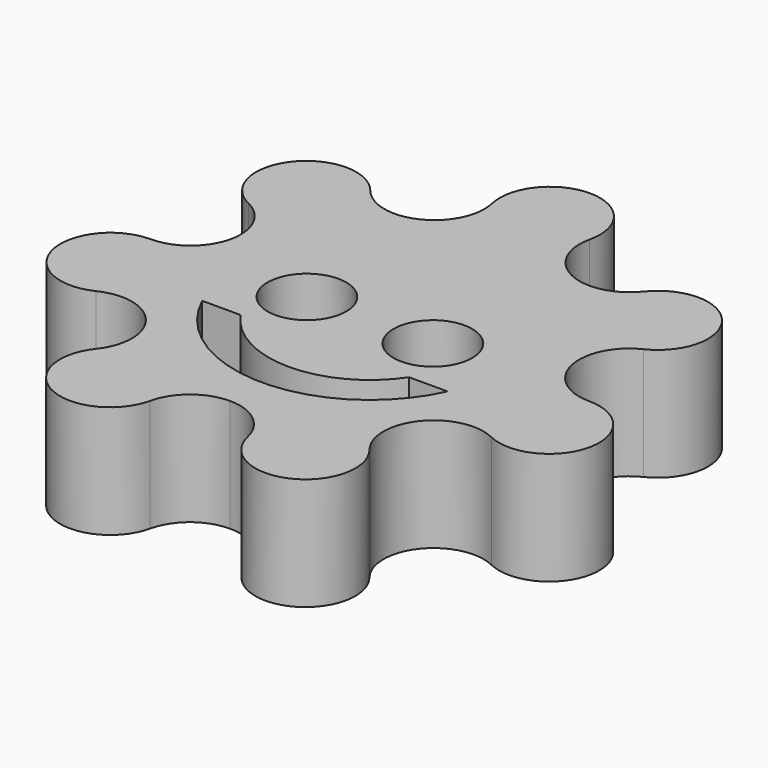
from build123d import *

# Parameters (mm, degrees)
PAD004_DEPTH         = 5
SKETCH012_R          = 0.8
POCKET006_DEPTH      = 67.792744
POCKET006_DEPTH_BACK = 72.792744
SKETCH013_R          = 1.75
POCKET007_DEPTH      = 70.792744
POCKET009_DEPTH      = 5


with BuildPart() as part:
    # Sketch011 (on DatumPlane) → Pad004 (new body)
    with BuildSketch(Plane.XY.offset(6)):
        with BuildLine():
            ThreePointArc((0, 12.225209), (-1.739739, 11.387395), (-2.169419, 9.504844))
            ThreePointArc((-6.078576, 7.622293), (-3.373355, 7.004844), (-2.169419, 9.504844))
            ThreePointArc((-6.078576, 7.622293), (-9.558054, 7.622293), (-8.783797, 4.230054))
            ThreePointArc((-9.749279, 0), (-7.57986, 1.730054), (-8.783797, 4.230054))
            ThreePointArc((-9.749279, 0), (-11.918698, -2.720365), (-8.783797, -4.230054))
            ThreePointArc((-6.078576, -7.622293), (-6.078576, -4.847503), (-8.783797, -4.230054))
            ThreePointArc((-6.078576, -7.622293), (-5.30432, -11.014533), (-2.169419, -9.504844))
            ThreePointArc((0, -7.774791), (-1.387395, -8.260261), (-2.169419, -9.504844))
            Line((0, 12.225209), (0, -7.774791))
        make_face()
    pad004 = extrude(amount=PAD004_DEPTH)

    # Mirrored003: Pad004 across Sketch011 V_Axis
    add(pad004.mirror(Plane(origin=(0, 0, 6), x_dir=(0, 0, 1), z_dir=(1, 0, 0))))

    # Sketch012 (on DatumPlane) → Pocket006 (cut, two sides)
    with BuildSketch(Plane.XY.offset(6)) as pocket006_sk:
        with Locations((-2.8, 0)):
            Circle(SKETCH012_R)
    pocket006 = extrude(amount=-POCKET006_DEPTH, mode=Mode.SUBTRACT) + extrude(pocket006_sk.sketch, amount=POCKET006_DEPTH_BACK, mode=Mode.SUBTRACT)

    # Sketch013 (on DatumPlane) → Pocket007 (cut, through all)
    with BuildSketch(Plane.XY.offset(8)):
        with Locations((-2.8, 0)):
            Circle(SKETCH013_R)
    pocket007 = extrude(amount=POCKET007_DEPTH, mode=Mode.SUBTRACT)

    # Mirrored004: Pocket006, Pocket007 across Sketch012 V_Axis
    add(pocket006.mirror(Plane(origin=(0, 0, 6), x_dir=(0, 0, 1), z_dir=(1, 0, 0))), mode=Mode.SUBTRACT)
    add(pocket007.mirror(Plane(origin=(0, 0, 6), x_dir=(0, 0, 1), z_dir=(1, 0, 0))), mode=Mode.SUBTRACT)

    # Sketch014 (on DatumPlane) → Pocket009 (cut)
    with BuildSketch(Plane.XY.offset(8)):
        with BuildLine():
            ThreePointArc((-5.454356, -2.5), (0, -6), (5.454356, -2.5))
            Line((3.741657, -2.5), (5.454356, -2.5))
            ThreePointArc((-3.741657, -2.5), (0, -4.5), (3.741657, -2.5))
            Line((-5.454356, -2.5), (-3.741657, -2.5))
        make_face()
    extrude(amount=POCKET009_DEPTH, mode=Mode.SUBTRACT)


solid = part.part
